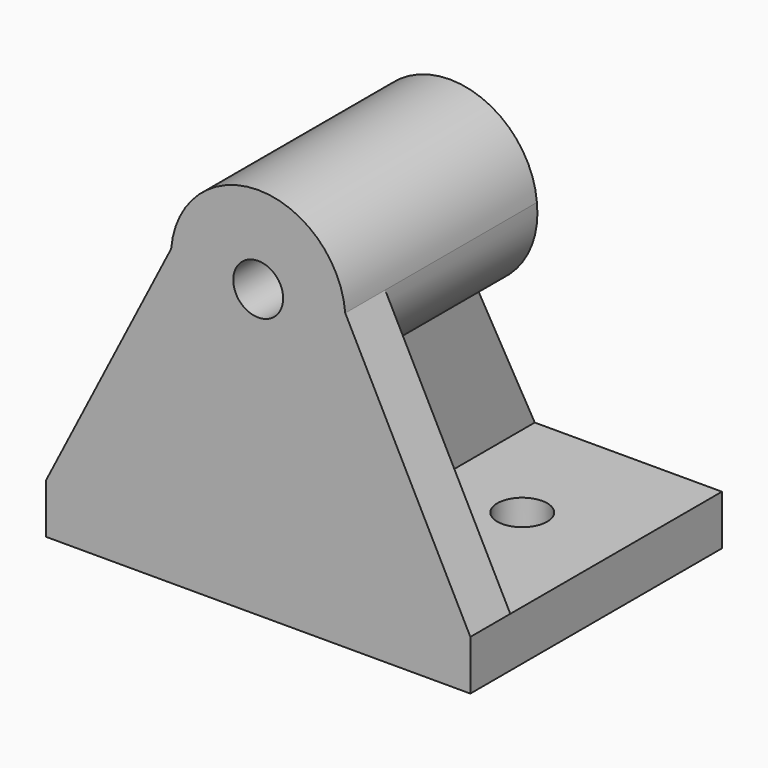
from build123d import *

# Parameters (mm, degrees)
F0_W     = 37.5
F0_H     = 10
F0_R     = 5
F1_DEPTH = 63
F2_R     = 5
F3_DEPTH = 10
F5_DEPTH = 53
F7_DEPTH = 63
F9_DEPTH = 25


with BuildPart() as f1:
    # F0 (on Front) → F1 (new body)
    with BuildSketch(Plane.XZ):
        Polygon((-5, 0), (0, 0), (5, 0), (5, 10), (-5, 10), align=None)
        with Locations((-23.75, 5)):
            Rectangle(F0_W, F0_H)
        with Locations((23.75, 5)):
            Rectangle(F0_W, F0_H)
        with BuildLine():
            Line((-42.5, 10), (-5, 10))
            Line((-5, 10), (-5, 40.72949))
            ThreePointArc((-5, 40.72949), (-14.455244, 47.63613), (-17.439102, 58.95867))
            Line((-17.439102, 58.95867), (-42.5, 10))
        make_face()
        with BuildLine():
            Line((5, 40.72949), (5, 10))
            Line((5, 10), (42.5, 10))
            Line((42.5, 10), (17.439102, 58.95867))
            ThreePointArc((17.439102, 58.95867), (17.484769, 58.22997), (17.5, 57.5))
            ThreePointArc((17.5, 57.5), (14.031215, 47.04175), (5, 40.72949))
        make_face()
        with BuildLine():
            ThreePointArc((-17.439102, 58.95867), (-14.455244, 47.63613), (-5, 40.72949))
            ThreePointArc((-5, 40.72949), (0, 40), (5, 40.72949))
            ThreePointArc((5, 40.72949), (14.031215, 47.04175), (17.5, 57.5))
            ThreePointArc((17.5, 57.5), (17.484769, 58.22997), (17.439102, 58.95867))
            ThreePointArc((17.439102, 58.95867), (0, 75), (-17.439102, 58.95867))
        make_face()
        with Locations((0, 57.5)):
            Circle(F0_R, mode=Mode.SUBTRACT)
    extrude(amount=F1_DEPTH)

    # F2 (on Top) → F3 (cut)
    with BuildSketch(Plane.XY):
        with Locations((-22.5, -25)):
            Circle(F2_R)
        with Locations((22.5, -25)):
            Circle(F2_R)
    extrude(amount=F3_DEPTH, mode=Mode.SUBTRACT)

    # F4 (on face) → F5 (cut)
    with BuildSketch(Plane(origin=(0, 0, 0), x_dir=(-1, 0, 0), z_dir=(0, 1, 0))):
        with BuildLine():
            Line((-17.439102, 58.95867), (-42.5, 10))
            Line((-42.5, 10), (-5, 10))
            Line((-5, 10), (-5, 40.72949))
            ThreePointArc((-5, 40.72949), (-14.579622, 47.551258), (-17.439102, 58.95867))
        make_face()
        with BuildLine():
            Line((42.5, 10), (17.439102, 58.95867))
            ThreePointArc((17.439102, 58.95867), (14.579622, 47.551258), (5, 40.72949))
            Line((5, 40.72949), (5, 10))
            Line((5, 10), (42.5, 10))
        make_face()
    extrude(amount=-F5_DEPTH, mode=Mode.SUBTRACT)

    # F6 (on face) → F7 (join)
    with BuildSketch(Plane.XZ.offset(63)):
        with BuildLine():
            Line((-5, 40.72949), (-5, 10))
            Line((-5, 10), (5, 10))
            Line((5, 10), (5, 40.72949))
            ThreePointArc((5, 40.72949), (0, 40), (-5, 40.72949))
        make_face()
    extrude(amount=-F7_DEPTH)

    # F8 (on face) → F9 (cut, symmetric)
    with BuildSketch(Plane.YZ.offset(5)):
        Polygon((-15, 40.72949), (0, 10), (0, 75), (-15, 75), align=None)
    extrude(amount=F9_DEPTH, both=True, mode=Mode.SUBTRACT)


solid = f1.part
